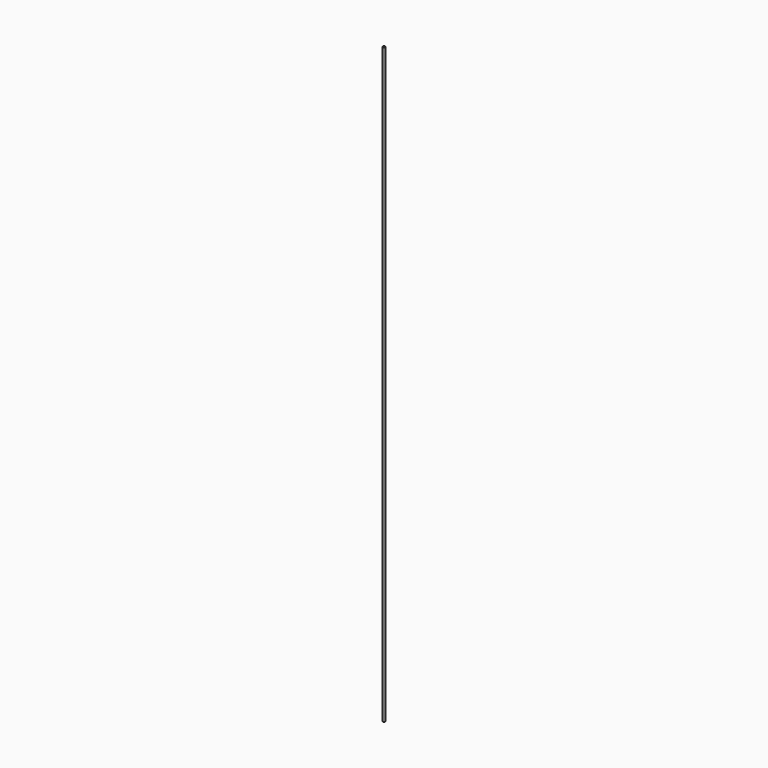
from build123d import *

# Parameters (mm, degrees)
SKETCH_R  = 20
PAD_DEPTH = 10000


with BuildPart() as part:
    # Sketch → Pad (new body)
    with BuildSketch(Plane.XY):
        Circle(SKETCH_R)
    extrude(amount=PAD_DEPTH)


solid = part.part
